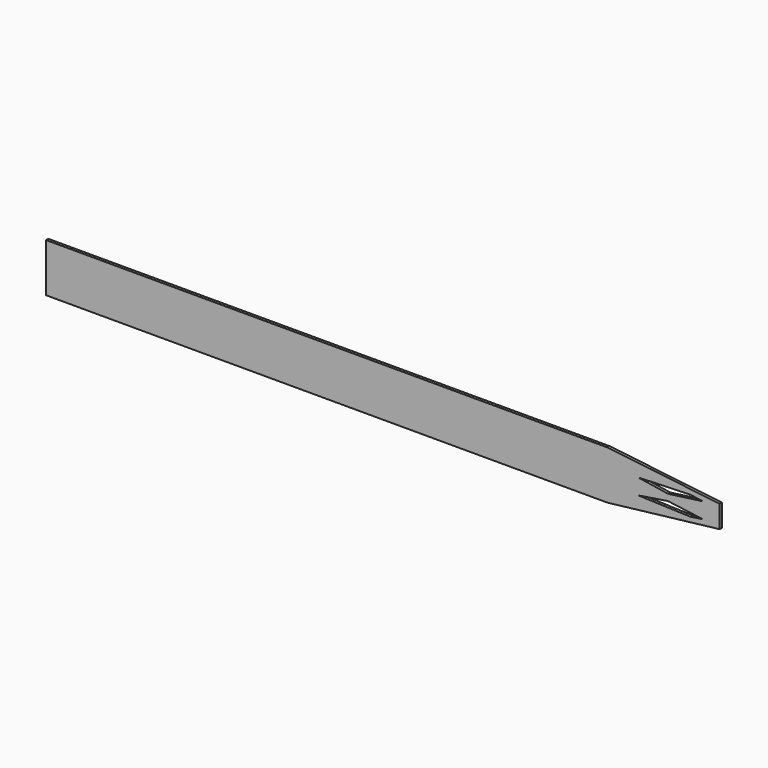
from build123d import *

# Parameters (mm, degrees)
F1_DEPTH  = 100
F1_FACE_W = 100
F1_FACE_H = 1730
F2_DEPTH  = 20000


with BuildPart() as f1:
    # F0 (on Front) → F1 (new body)
    with BuildSketch(Plane.XZ):
        Polygon((3989.9, 0), (3989.9, 398.6), (0, 865), (0, 0), (0, -865), (3989.9, -398.6), align=None)
        Polygon((3394, -281.1), (2941, -346), (1088, -281.1), (2107.1, -121.1), (2199.8, -121.1), align=None, mode=Mode.SUBTRACT)
        Polygon((2107.1, 121.1), (1088, 281.1), (2941, 346), (3394, 281.1), (2199.8, 121.1), align=None, mode=Mode.SUBTRACT)
    extrude(amount=F1_DEPTH)

    # F1_face (on face) → F2 (join)
    with BuildSketch(Plane(origin=(0, -50, 0), x_dir=(0, -1, 0), z_dir=(-1, 0, 0))):
        Rectangle(F1_FACE_W, F1_FACE_H)
    extrude(amount=F2_DEPTH)


solid = f1.part
